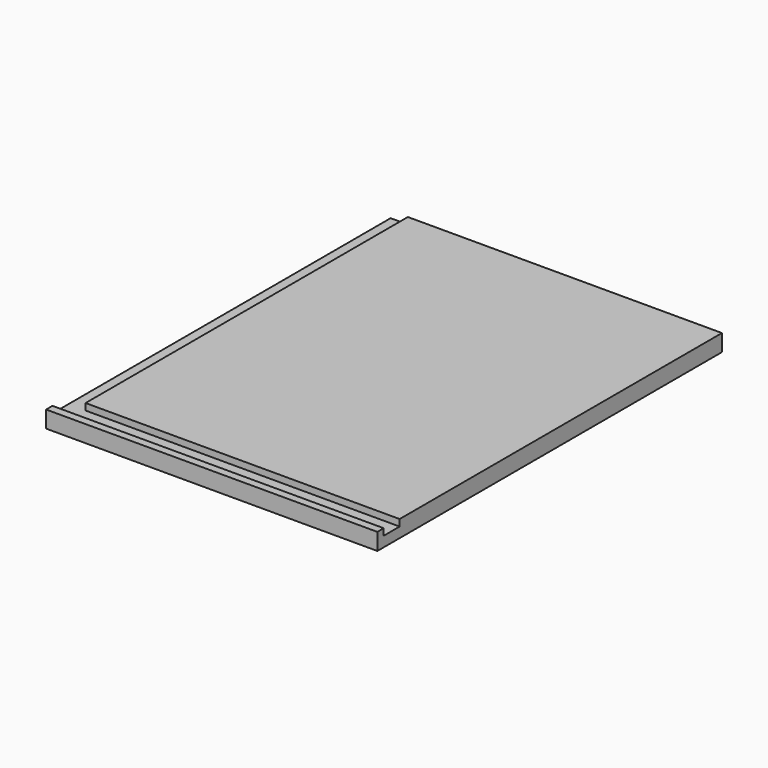
from build123d import *

# Parameters (mm, degrees)
SKETCH006_W     = 250
SKETCH006_H     = 325
PAD005_DEPTH    = 12.7
POCKET001_DEPTH = 5


with BuildPart() as roof:
    # Sketch006 → Pad005 (new body)
    with BuildSketch(Plane.XY):
        with Locations((742.936954, 526.654633)):
            Rectangle(SKETCH006_W, SKETCH006_H)
    extrude(amount=PAD005_DEPTH)

    # Sketch007 (on Face6 of Pad005) → Pocket001 (cut)
    with BuildSketch(Plane.XY.offset(12.7)):
        Polygon((854.936954, 702.879578), (854.936954, 385.154633), (607.793213, 385.154633), (607.793213, 370.154633), (885.780701, 370.154633), (885.780701, 702.879578), align=None)
    extrude(amount=-POCKET001_DEPTH, mode=Mode.SUBTRACT)


with BuildPart() as model_roof_mirrored:
    # Mirror001: instance of Roof
    add(roof.part.mirror(Plane(origin=(875.298889, 692.274536, 0), x_dir=(0, 1, 0), z_dir=(-1, 0, 0))))


solid = model_roof_mirrored.part
